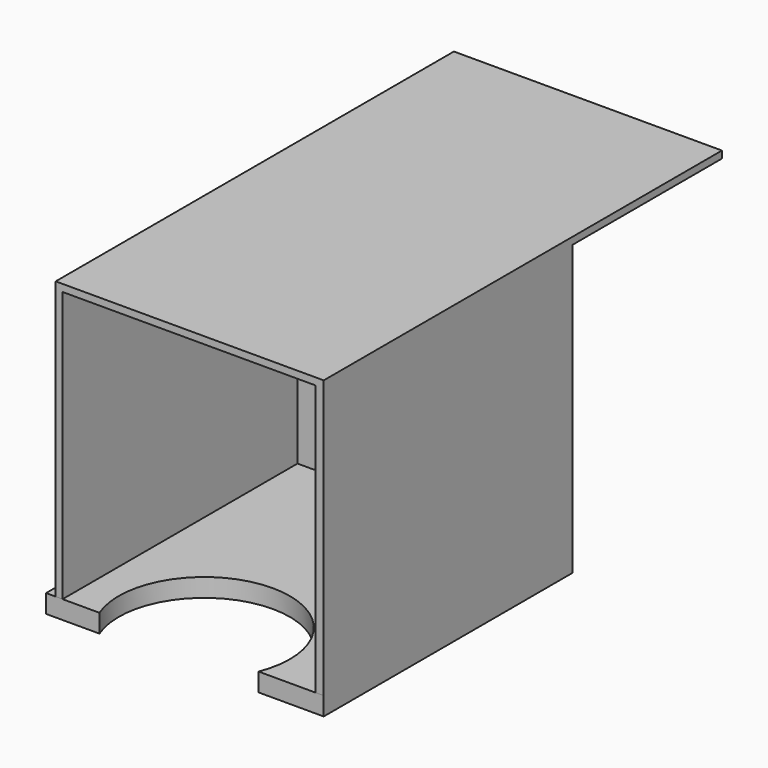
from build123d import *

# Parameters (mm, degrees)
F0_W          = 1.9936040044
F0_H          = 36.5494191647
F1_DEPTH      = 2.286
F2_DEPTH      = 36.83
F3_W          = 33.3596542478
F3_H          = 0.8849272299
F4_DEPTH      = 36.5494316
F4_DEPTH_BACK = 25.4
F5_W          = 0.8558779955
F5_H          = 33.6590727701
F6_DEPTH      = 36.5494316
F7_W          = 0.9992271662
F7_H          = 33.6590727701
F8_DEPTH      = 36.5494316


with BuildPart() as f1:
    # F0 (on Top) → F1 (new body)
    with BuildSketch(Plane.XY):
        Polygon((-55.1563985646, 25.9833149612), (-56.3525594771, 25.9833149612), (-56.3525594771, -12.6926153898), (-55.1563985646, -12.6926153898), (-55.1563985646, 23.8568037748), align=None)
        with Locations((-22.793546319, 5.5820941925)):
            Rectangle(F0_W, F0_H)
        Polygon((-21.7967443168, 25.9833149612), (-55.1563985646, 25.9833149612), (-55.1563985646, 23.8568037748), (-23.7903483212, 23.8568037748), (-21.7967443168, 23.8568037748), align=None)
        with BuildLine():
            Line((-23.7903483212, 23.8568037748), (-55.1563985646, 23.8568037748))
            Line((-55.1563985646, 23.8568037748), (-55.1563985646, -12.6926153898))
            Line((-55.1563985646, -12.6926153898), (-49.7072115541, -12.6926153898))
            ThreePointArc((-49.7072115541, -12.6926153898), (-39.8056404665, 1.8860553596), (-29.904069379, -12.6926153898))
            Line((-29.904069379, -12.6926153898), (-23.7903483212, -12.6926153898))
            Line((-23.7903483212, -12.6926153898), (-23.7903483212, 23.8568037748))
        make_face()
    extrude(amount=F1_DEPTH)

    # F0 (on Top) → F2 (join)
    with BuildSketch(Plane.XY):
        Polygon((-21.7967443168, 25.9833149612), (-55.1563985646, 25.9833149612), (-55.1563985646, 23.8568037748), (-23.7903483212, 23.8568037748), (-21.7967443168, 23.8568037748), align=None)
    extrude(amount=F2_DEPTH)

    # F3 (on face) → F4 (join, two sides)
    with BuildSketch(Plane.XZ.offset(-23.8568037748)) as f4_sk:
        with Locations((-38.4765714407, 36.3875363851)):
            Rectangle(F3_W, F3_H)
    extrude(amount=F4_DEPTH)
    extrude(f4_sk.sketch, amount=-F4_DEPTH_BACK)

    # F5 (on face) → F6 (join)
    with BuildSketch(Plane.XZ.offset(-23.8568037748)):
        with Locations((-54.7284595668, 19.1155363851)):
            Rectangle(F5_W, F5_H)
    extrude(amount=F6_DEPTH)

    # F7 (on face) → F8 (join)
    with BuildSketch(Plane.XZ.offset(-23.8568037748)):
        with Locations((-22.2963578999, 19.1155363851)):
            Rectangle(F7_W, F7_H)
    extrude(amount=F8_DEPTH)


solid = f1.part
